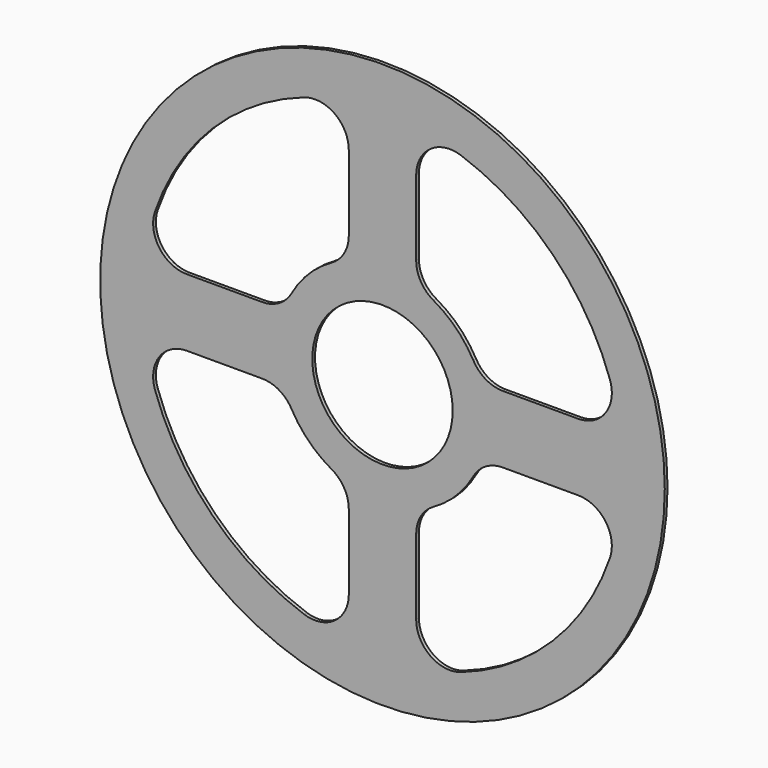
from build123d import *

# Parameters (mm, degrees)
F0_R     = 83
F0_R_2   = 20.64
F1_DEPTH = 1.016


with BuildPart() as f1:
    # F0 (on Front) → F1 (new body)
    with BuildSketch(Plane.XZ):
        Circle(F0_R)
        with BuildLine():
            ThreePointArc((-9.906, -57.528054), (-14.059776, -65.592839), (-23.037588, -66.894185))
            ThreePointArc((-23.037588, -66.894185), (-50.027805, -50.027805), (-66.894185, -23.037588))
            ThreePointArc((-66.894185, -23.037588), (-65.592839, -14.059776), (-57.528054, -9.906))
            Line((-57.528054, -9.906), (-35.376043, -9.906))
            ThreePointArc((-35.376043, -9.906), (-30.367043, -11.265728), (-26.733146, -14.971632))
            ThreePointArc((-26.733146, -14.971632), (-21.665766, -21.665766), (-14.971632, -26.733146))
            ThreePointArc((-14.971632, -26.733146), (-11.265728, -30.367043), (-9.906, -35.376043))
            Line((-9.906, -35.376043), (-9.906, -57.528054))
        make_face(mode=Mode.SUBTRACT)
        with BuildLine():
            ThreePointArc((57.528054, -9.906), (65.592839, -14.059776), (66.894185, -23.037588))
            ThreePointArc((66.894185, -23.037588), (50.027805, -50.027805), (23.037588, -66.894185))
            ThreePointArc((23.037588, -66.894185), (14.059776, -65.592839), (9.906, -57.528054))
            Line((9.906, -57.528054), (9.906, -35.376043))
            ThreePointArc((9.906, -35.376043), (11.265728, -30.367043), (14.971632, -26.733146))
            ThreePointArc((14.971632, -26.733146), (21.665766, -21.665766), (26.733146, -14.971632))
            ThreePointArc((26.733146, -14.971632), (30.367043, -11.265728), (35.376043, -9.906))
            Line((35.376043, -9.906), (57.528054, -9.906))
        make_face(mode=Mode.SUBTRACT)
        with BuildLine():
            Line((-35.376043, 9.906), (-57.528054, 9.906))
            ThreePointArc((-57.528054, 9.906), (-65.592839, 14.059776), (-66.894185, 23.037588))
            ThreePointArc((-66.894185, 23.037588), (-50.027805, 50.027805), (-23.037588, 66.894185))
            ThreePointArc((-23.037588, 66.894185), (-14.059776, 65.592839), (-9.906, 57.528054))
            Line((-9.906, 57.528054), (-9.906, 35.376043))
            ThreePointArc((-9.906, 35.376043), (-11.265728, 30.367043), (-14.971632, 26.733146))
            ThreePointArc((-14.971632, 26.733146), (-21.665766, 21.665766), (-26.733146, 14.971632))
            ThreePointArc((-26.733146, 14.971632), (-30.367043, 11.265728), (-35.376043, 9.906))
        make_face(mode=Mode.SUBTRACT)
        Circle(F0_R_2, mode=Mode.SUBTRACT)
        with BuildLine():
            ThreePointArc((9.906, 57.528054), (14.059776, 65.592839), (23.037588, 66.894185))
            ThreePointArc((23.037588, 66.894185), (50.027805, 50.027805), (66.894185, 23.037588))
            ThreePointArc((66.894185, 23.037588), (65.592839, 14.059776), (57.528054, 9.906))
            Line((57.528054, 9.906), (35.376043, 9.906))
            ThreePointArc((35.376043, 9.906), (30.367043, 11.265728), (26.733146, 14.971632))
            ThreePointArc((26.733146, 14.971632), (21.665766, 21.665766), (14.971632, 26.733146))
            ThreePointArc((14.971632, 26.733146), (11.265728, 30.367043), (9.906, 35.376043))
            Line((9.906, 35.376043), (9.906, 57.528054))
        make_face(mode=Mode.SUBTRACT)
    extrude(amount=F1_DEPTH)


solid = f1.part
